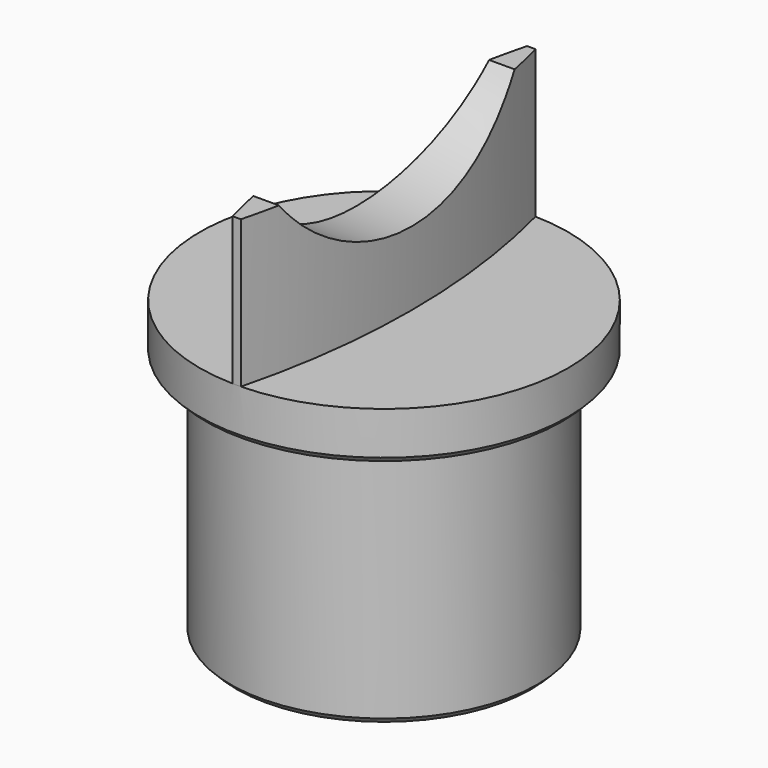
from build123d import *

# Parameters (mm, degrees)
F0_R          = 12.5
F1_DEPTH      = 20
F2_R          = 15
F3_DEPTH      = 4
F5_DEPTH      = 12
F7_DEPTH      = 7.4
F7_DEPTH_BACK = 5.4
F8_SIZE       = 0.5


with BuildPart() as f1:
    # F0 (on Top) → F1 (new body)
    with BuildSketch(Plane.XY):
        Circle(F0_R)
    extrude(amount=F1_DEPTH)

    # F2 (on face) → F3 (join)
    with BuildSketch(Plane.XY.offset(20)):
        Circle(F2_R)
    extrude(amount=F3_DEPTH)

    # F4 (on face) → F5 (join)
    with BuildSketch(Plane.XY.offset(24)):
        with BuildLine():
            ThreePointArc((-0.345779, 14.996014), (-2.25, 0), (-0.345779, -14.996014))
            ThreePointArc((-0.345779, -14.996014), (0, -15), (0.345779, -14.996014))
            ThreePointArc((0.345779, -14.996014), (2.25, 0), (0.345779, 14.996014))
            ThreePointArc((0.345779, 14.996014), (0, 15), (-0.345779, 14.996014))
        make_face()
    extrude(amount=F5_DEPTH)

    # F6 (on Right) → F7 (cut, two sides)
    with BuildSketch(Plane.YZ) as f7_sk:
        with BuildLine():
            Line((-12, 37), (-12, 36))
            ThreePointArc((-12, 36), (0, 30), (12, 36))
            Line((12, 36), (12, 37))
            Line((12, 37), (-12, 37))
        make_face()
    extrude(amount=F7_DEPTH, mode=Mode.SUBTRACT)
    extrude(f7_sk.sketch, amount=-F7_DEPTH_BACK, mode=Mode.SUBTRACT)

    # F8
    f8_edges = [f1.edges().sort_by_distance(p)[0] for p in [
        (-12.5, 0, 0),
        (-15, 0, 20),
    ]]
    chamfer(f8_edges, length=F8_SIZE)


solid = f1.part
